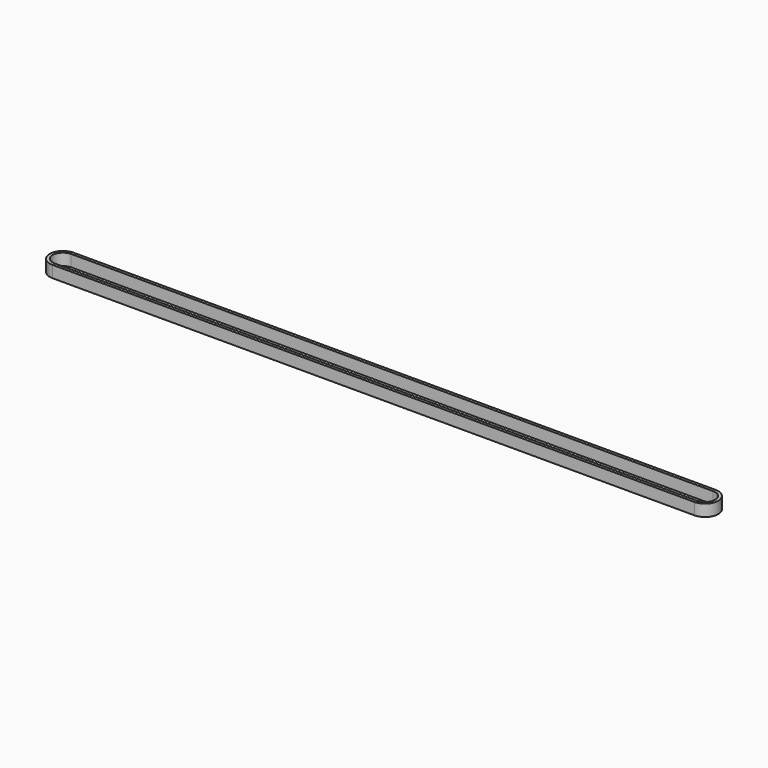
from build123d import *

# Parameters (mm, degrees)
PAD_DEPTH = 6


with BuildPart() as part:
    # Sketch → Pad (new body)
    with BuildSketch(Plane.XY):
        with BuildLine():
            ThreePointArc((-163.999969, 6.75), (-170.749969, 0), (-163.99997, -6.75))
            Line((-163.99997, -6.75), (164.00003, -6.75))
            ThreePointArc((164.00003, -6.75), (170.75, 0), (164.000031, 6.75))
            Line((-163.999969, 6.75), (164.000031, 6.75))
        make_face()
        with BuildLine():
            Line((-164, 5.25), (164, 5.25))
            ThreePointArc((164, -5.25), (169.25, 0), (164, 5.25))
            Line((164, -5.25), (-164, -5.25))
            ThreePointArc((-164, 5.25), (-169.249969, 0), (-164, -5.25))
        make_face(mode=Mode.SUBTRACT)
    extrude(amount=PAD_DEPTH)


solid = part.part
